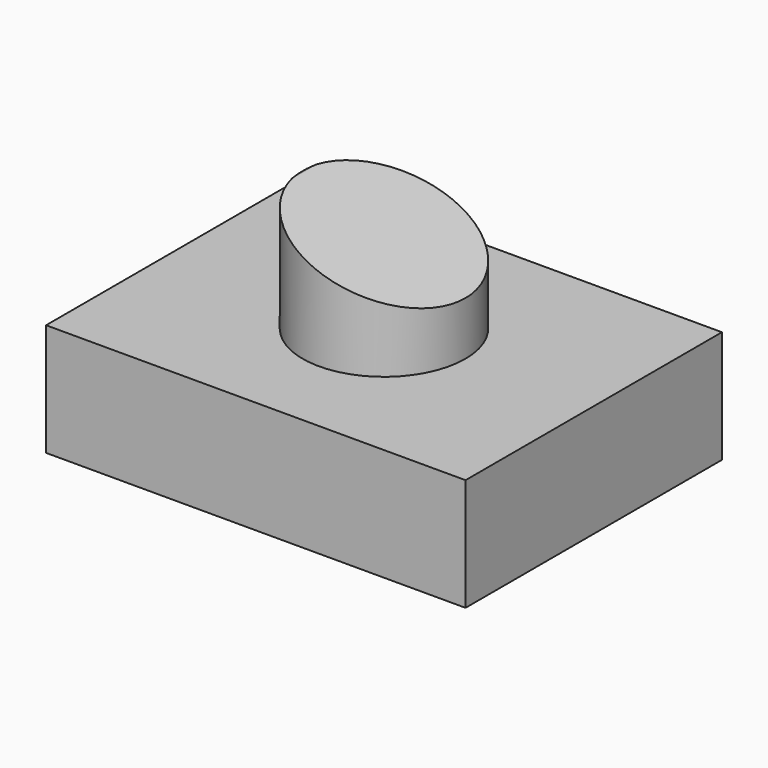
from build123d import *

# Parameters (mm, degrees)
F0_W          = 94.798579812
F0_H          = 72.4261179566
F1_DEPTH      = 25.4
F2_R          = 18.3997173806
F3_DEPTH      = 25.4
F5_DEPTH      = 36.2140589783
F5_DEPTH_BACK = 36.2140589783


with BuildPart() as f1:
    # F0 (on Top) → F1 (new body)
    with BuildSketch(Plane.XY):
        Rectangle(F0_W, F0_H)
    extrude(amount=F1_DEPTH)

    # F2 (on face) → F3 (join)
    with BuildSketch(Plane.XY.offset(25.4)):
        Circle(F2_R)
    extrude(amount=F3_DEPTH)

    # F4 (on Front) → F5 (cut, two sides)
    with BuildSketch(Plane.XZ) as f5_sk:
        Polygon((19.6720566601, 52.7677323434), (-19.1493127495, 51.1912330985), (19.6720566601, 37.0027127904), align=None)
    extrude(amount=-F5_DEPTH, mode=Mode.SUBTRACT)
    extrude(f5_sk.sketch, amount=F5_DEPTH_BACK, mode=Mode.SUBTRACT)


solid = f1.part
